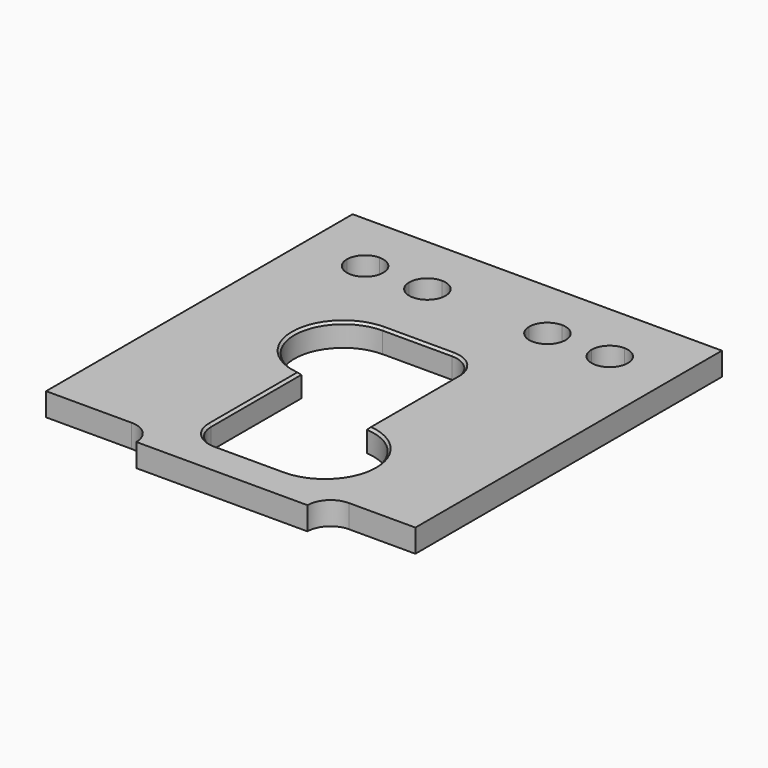
from build123d import *

# Parameters (mm, degrees)
F1_DEPTH = 6.35
F2_SIZE  = 0.635


with BuildPart() as f1:
    # F0 (on Top) → F1 (new body)
    with BuildSketch(Plane.XY):
        with BuildLine():
            Line((-33.655, 69.85), (-50.8, 69.85))
            Line((-50.8, 69.85), (-50.8, 52.705))
            Line((-50.8, 52.705), (-38.655, 52.705))
            ThreePointArc((-38.655, 52.705), (-37.190534, 56.240534), (-33.655, 57.705))
            Line((-33.655, 57.705), (-33.655, 69.85))
        make_face()
        with BuildLine():
            Line((-16.51, 69.85), (-33.655, 69.85))
            Line((-33.655, 69.85), (-33.655, 57.705))
            ThreePointArc((-33.655, 57.705), (-30.119466, 56.240534), (-28.655, 52.705))
            Line((-28.655, 52.705), (-21.51, 52.705))
            ThreePointArc((-21.51, 52.705), (-20.045534, 56.240534), (-16.51, 57.705))
            Line((-16.51, 57.705), (-16.51, 69.85))
        make_face()
        with BuildLine():
            Line((-38.655, 52.705), (-50.8, 52.705))
            Line((-50.8, 52.705), (-50.8, -35.56001))
            Line((-50.8, -35.56001), (-27.24662, -35.56001))
            ThreePointArc((-27.24662, -35.56001), (-22.756492, -37.419882), (-20.89662, -41.91001))
            Line((-20.89662, -41.91001), (26.187895, -41.91001))
            ThreePointArc((26.187895, -41.91001), (28.047767, -37.419882), (32.537895, -35.56001))
            Line((32.537895, -35.56001), (50.8, -35.56001))
            Line((50.8, -35.56001), (50.8, 52.705))
            Line((50.8, 52.705), (38.655, 52.705))
            ThreePointArc((38.655, 52.705), (33.655, 47.705), (28.655, 52.705))
            Line((28.655, 52.705), (21.51, 52.705))
            ThreePointArc((21.51, 52.705), (16.51, 47.705), (11.51, 52.705))
            Line((11.51, 52.705), (-11.51, 52.705))
            ThreePointArc((-11.51, 52.705), (-16.51, 47.705), (-21.51, 52.705))
            Line((-21.51, 52.705), (-28.655, 52.705))
            ThreePointArc((-28.655, 52.705), (-33.655, 47.705), (-38.655, 52.705))
        make_face()
        with BuildLine():
            ThreePointArc((13.493738, -5.579616), (26.187895, -19.447047), (12.699988, -32.54375))
            Line((12.699988, -32.54375), (-6.350012, -32.54375))
            ThreePointArc((-6.350012, -32.54375), (-11.401407, -30.451394), (-13.493762, -25.4))
            Line((-13.493762, -25.4), (-13.493762, 5.579616))
            ThreePointArc((-13.493762, 5.579616), (-26.18792, 19.447047), (-12.700012, 32.54375))
            Line((-12.700012, 32.54375), (6.349988, 32.54375))
            ThreePointArc((6.349988, 32.54375), (11.401382, 30.451394), (13.493738, 25.4))
            Line((13.493738, 25.4), (13.493738, -5.579616))
        make_face(mode=Mode.SUBTRACT)
        with BuildLine():
            Line((16.51, 69.85), (-16.51, 69.85))
            Line((-16.51, 69.85), (-16.51, 57.705))
            ThreePointArc((-16.51, 57.705), (-12.974466, 56.240534), (-11.51, 52.705))
            Line((-11.51, 52.705), (11.51, 52.705))
            ThreePointArc((11.51, 52.705), (12.974466, 56.240534), (16.51, 57.705))
            Line((16.51, 57.705), (16.51, 69.85))
        make_face()
        with BuildLine():
            Line((33.655, 69.85), (16.51, 69.85))
            Line((16.51, 69.85), (16.51, 57.705))
            ThreePointArc((16.51, 57.705), (20.045534, 56.240534), (21.51, 52.705))
            Line((21.51, 52.705), (28.655, 52.705))
            ThreePointArc((28.655, 52.705), (30.119466, 56.240534), (33.655, 57.705))
            Line((33.655, 57.705), (33.655, 69.85))
        make_face()
        with BuildLine():
            Line((50.8, 69.85), (33.655, 69.85))
            Line((33.655, 69.85), (33.655, 57.705))
            ThreePointArc((33.655, 57.705), (37.190534, 56.240534), (38.655, 52.705))
            Line((38.655, 52.705), (50.8, 52.705))
            Line((50.8, 52.705), (50.8, 69.85))
        make_face()
    extrude(amount=-F1_DEPTH)

    # F2
    f2_edges = [f1.edges().sort_by_distance(p)[0] for p in [
        (13.493738, 9.910192, 0),
        (-13.493762, -9.910192, 0),
    ]]
    chamfer(f2_edges, length=F2_SIZE)


solid = f1.part
